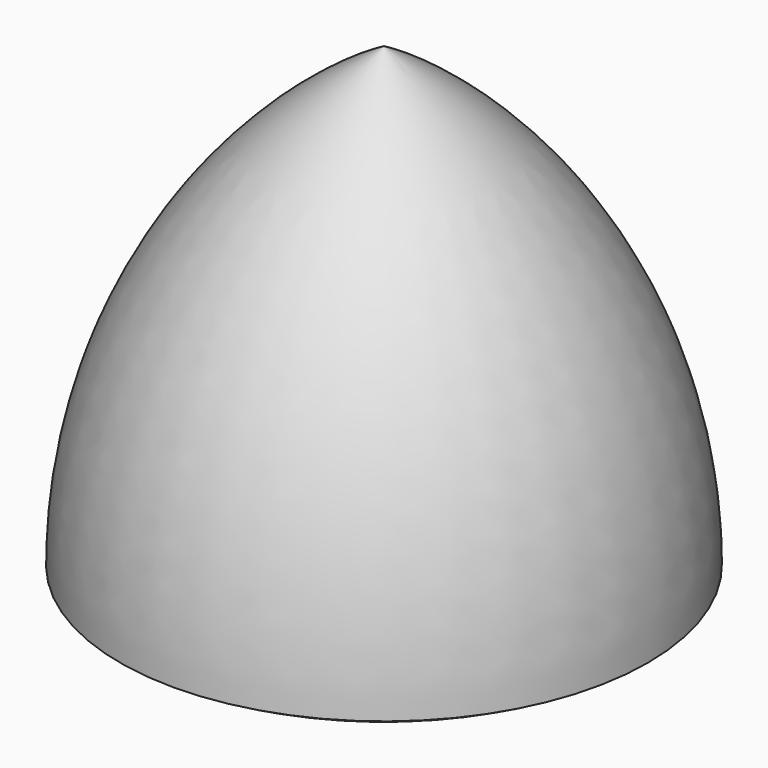
from build123d import *


with BuildPart() as f1:
    # F0 (on Front) → F1 (revolve)
    with BuildSketch(Plane.XZ):
        with BuildLine():
            Line((0, 73.196723), (0, -11.323572))
            ThreePointArc((0, -11.323572), (21.875462, -8.443613), (42.260148, 0))
            ThreePointArc((42.260148, 0), (30.936575, 42.260148), (0, 73.196723))
        make_face()
    revolve(axis=Axis((0, 0, 30.936575), (0, 0, -1)))


solid = f1.part
